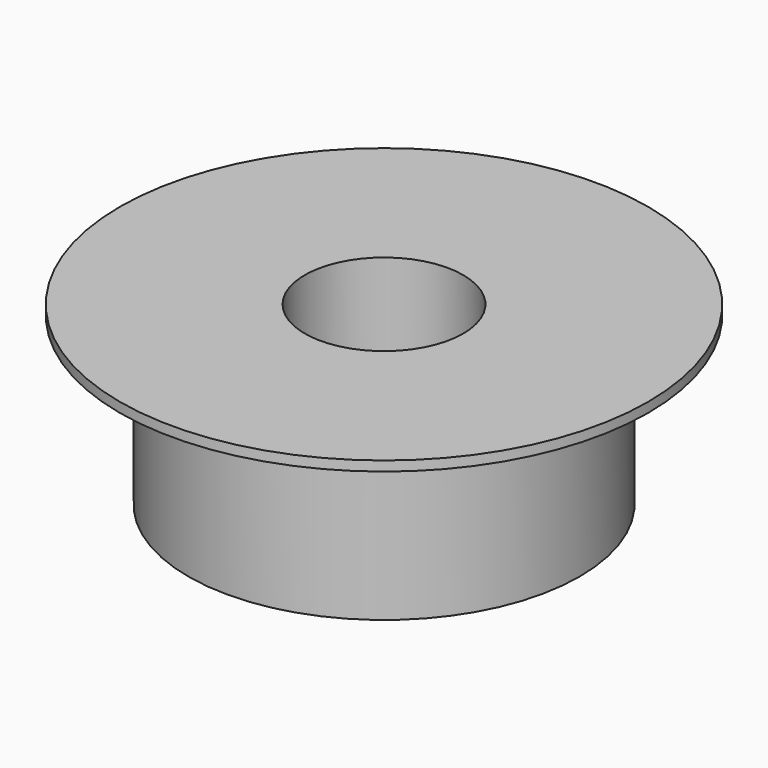
from build123d import *

# Parameters (mm, degrees)
F0_R     = 10
F1_DEPTH = 8.5
F2_R     = 10
F2_R_2   = 13.5
F3_DEPTH = 0.5
F4_R     = 4.05
F5_DEPTH = 9.001


with BuildPart() as f1:
    # F0 (on Top) → F1 (new body)
    with BuildSketch(Plane.XY):
        Circle(F0_R)
    extrude(amount=F1_DEPTH)

    # F2 (on face) → F3 (join)
    with BuildSketch(Plane.XY.offset(8.5)):
        Circle(F2_R)
        Circle(F2_R_2)
        Circle(F2_R, mode=Mode.SUBTRACT)
        Circle(F2_R_2)
    extrude(amount=F3_DEPTH)

    # F4 (on face) → F5 (cut, through all)
    with BuildSketch(Plane.XY.offset(9)):
        Circle(F4_R)
    extrude(amount=-F5_DEPTH, mode=Mode.SUBTRACT)


solid = f1.part
